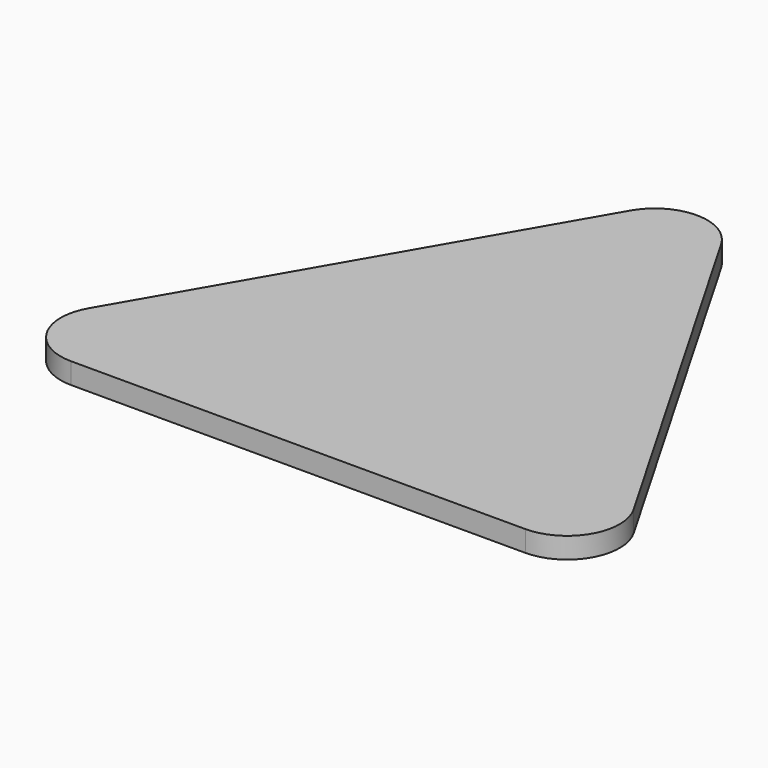
from build123d import *

# Parameters (mm, degrees)
F1_DEPTH = 2
F2_R     = 5


with BuildPart() as f1:
    # F0 (on Top) → F1 (new body)
    with BuildSketch(Plane.XY):
        Polygon((30.310889, -17.5), (0, 35), (-30.310889, -17.5), align=None)
    extrude(amount=F1_DEPTH)

    # F2
    f2_edges = [f1.edges().sort_by_distance(p)[0] for p in [
        (0, 35, 1),
        (-30.310889, -17.5, 1),
        (30.310889, -17.5, 1),
    ]]
    fillet(f2_edges, radius=F2_R)


solid = f1.part
